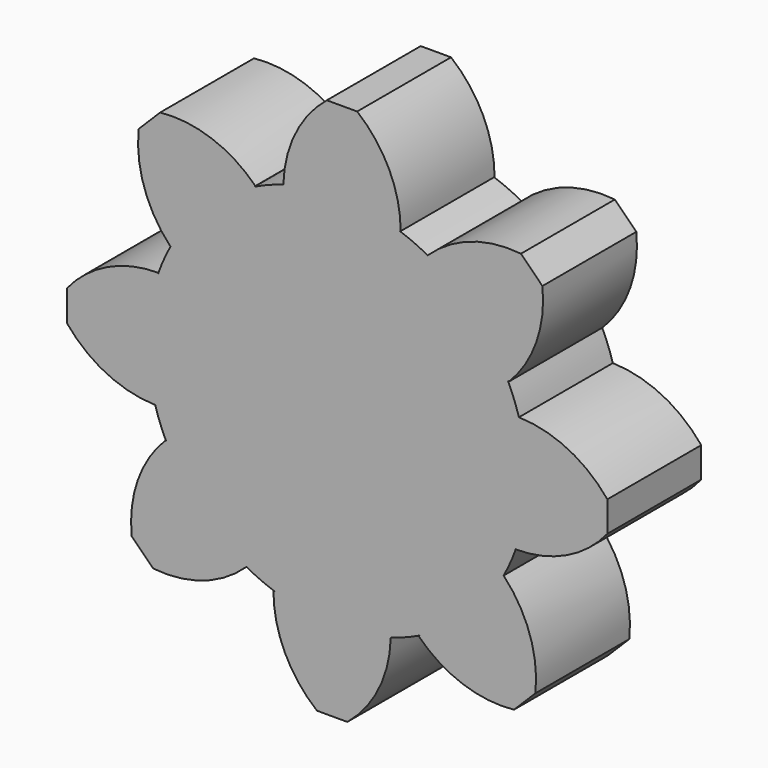
from build123d import *

# Parameters (mm, degrees)
F2_DEPTH = 12.7
F1_R     = 20.5223839117
F3_DEPTH = 12.7
F4_COUNT = 8
F7_DEPTH = 12.7
F6_R     = 43.0741036452
F8_DEPTH = 12.7
F9_COUNT = 15


with BuildPart() as f2:
    # F0 (on Front) → F2 (new body)
    with BuildSketch(Plane.XZ):
        with BuildLine():
            Line((-5.8162368315, 19.3805601989), (6.8837631685, 19.3805601989))
            ThreePointArc((6.8837631685, 19.3805601989), (5.6466426807, 24.8479538456), (2.1762996585, 29.250178249))
            Line((2.1762996585, 29.250178249), (-1.1087733216, 29.250178249))
            ThreePointArc((-1.1087733216, 29.250178249), (-4.5791163438, 24.8479538456), (-5.8162368315, 19.3805601989))
        make_face()
    extrude(amount=F2_DEPTH)

    # F1 (on Front) → F3 (join)
    with BuildSketch(Plane.XZ):
        Circle(F1_R)
    extrude(amount=F3_DEPTH)

    # F4: F2 ×8 about axis
    f4_axis = Axis((0, 0, 0), (0, 1, 0))


with BuildPart() as f2_1:
    add(f2.part)
    for i in range(1, F4_COUNT):
        add(f2.part.rotate(f4_axis, i * 360 / F4_COUNT))


with BuildPart() as f7:
    # F5 (on Front) → F7 (new body)
    with BuildSketch(Plane.XZ):
        with BuildLine():
            Line((-96.6539090335, 40.7748068149), (-83.9539090335, 40.7748068149))
            ThreePointArc((-83.9539090335, 40.7748068149), (-85.1910295213, 46.2422004616), (-88.6613725435, 50.644424865))
            Line((-88.6613725435, 50.644424865), (-91.9464455236, 50.644424865))
            ThreePointArc((-91.9464455236, 50.644424865), (-95.4167885458, 46.2422004616), (-96.6539090335, 40.7748068149))
        make_face()
    extrude(amount=F7_DEPTH)

    # F6 (on Front) → F8 (join)
    with BuildSketch(Plane.XZ):
        with Locations((-88.5588899255, 0)):
            Circle(F6_R)
    extrude(amount=F8_DEPTH)

    # F9: F7 ×15 about axis
    f9_axis = Axis((-88.5588899255, 0, 0), (0, 1, 0))


with BuildPart() as f7_1:
    add(f7.part)
    for i in range(1, F9_COUNT):
        add(f7.part.rotate(f9_axis, i * 360 / F9_COUNT))


solid = f2_1.part
